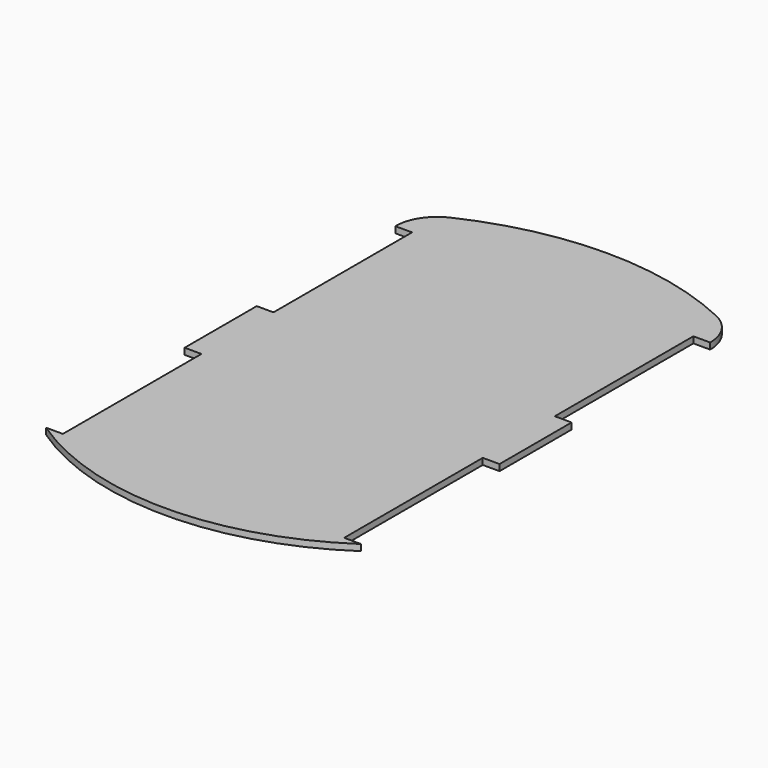
from build123d import *

# Parameters (mm, degrees)
F1_DEPTH = 3


with BuildPart() as f1:
    # F0 (on Top) → F1 (new body)
    with BuildSketch(Plane.XY):
        with BuildLine():
            ThreePointArc((-75, -110), (0, -132.956233), (75, -110))
            Line((75, -110), (67, -110))
            Line((67, -110), (67, -27.5))
            Line((67, -27.5), (75, -27.5))
            Line((75, -27.5), (75, 15.416617))
            Line((75, 15.416617), (67, 15.416617))
            Line((67, 15.416617), (67, 97.916617))
            Line((67, 97.916617), (75, 97.916617))
            ThreePointArc((75, 97.916617), (73.957089, 104.290688), (70.937122, 110))
            ThreePointArc((70.937122, 110), (67.582857, 113.462411), (63.497547, 116.021636))
            ThreePointArc((63.497547, 116.021636), (0, 130.181802), (-63.497547, 116.021636))
            ThreePointArc((-63.497547, 116.021636), (-67.582857, 113.462411), (-70.937122, 110))
            ThreePointArc((-70.937122, 110), (-73.957089, 104.290688), (-75, 97.916617))
            Line((-75, 97.916617), (-67, 97.916617))
            Line((-67, 97.916617), (-67, 15.416617))
            Line((-67, 15.416617), (-75, 15.416617))
            Line((-75, 15.416617), (-75, -27.5))
            Line((-75, -27.5), (-67, -27.5))
            Line((-67, -27.5), (-67, -110))
            Line((-67, -110), (-75, -110))
        make_face()
    extrude(amount=F1_DEPTH)


solid = f1.part
